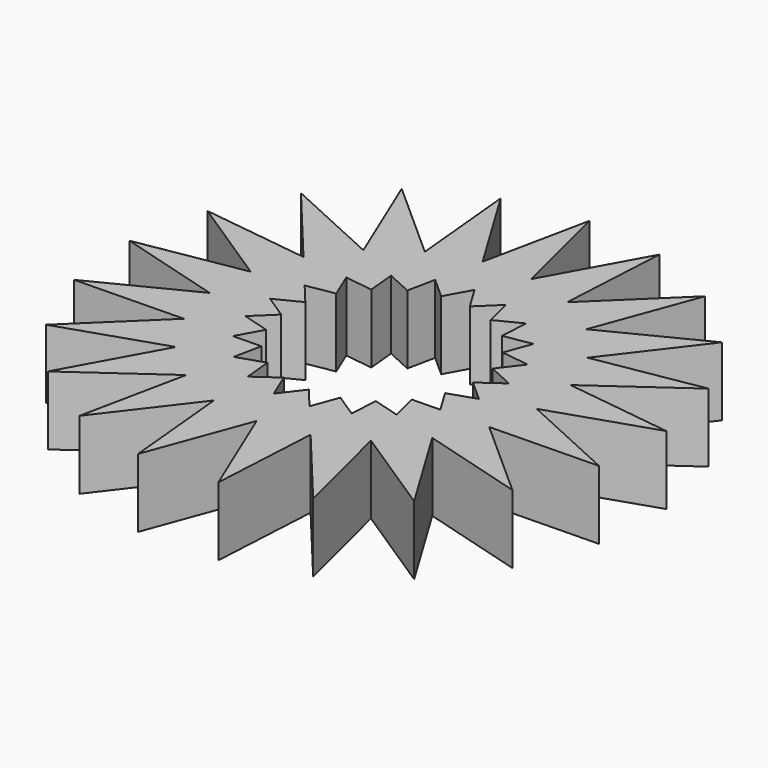
from build123d import *

# Parameters (mm, degrees)
F1_DEPTH = 3.175


with BuildPart() as f1:
    # F0 (on Top) → F1 (new body)
    with BuildSketch(Plane.XY):
        Polygon((-10.4870628137, -6.3373573051), (-5.7407955294, -4.7688256549), (-4.6671820235, -2.8203893327), (-6.8913841292, -2.8648309238), align=None)
        Polygon((-8.1531831795, -9.14692233), (-4.0801120539, -6.2490892989), (-3.6285078717, -4.0707633994), (-5.7407955294, -4.7688256549), align=None)
        Polygon((-4.0801120539, -6.2490892989), (-5.0948574403, -11.1437431653), (-2.056892717, -7.174093935), (-2.267424872, -4.9594322738), align=None)
        Polygon((-0.704871222, -5.4074338266), (-2.056892717, -7.174093935), (-1.583831259, -12.1503935168), (0.1490905642, -7.461648842), align=None)
        Polygon((2.4637240027, -4.8648995948), (2.3418264946, -7.0862035045), (5.5359375832, -10.9313301636), (4.326480864, -6.0811178883), align=None)
        Polygon((3.7882219865, -3.9225703575), (4.326480864, -6.0811178883), (8.512057538, -8.8139355875), (5.9267084221, -4.5356982612), align=None)
        Polygon((4.7761198224, -2.6317035301), (5.9267084221, -4.5356982612), (10.7318438259, -5.9133841552), (7.0003219281, -2.587261939), align=None)
        Polygon((5.3396384525, -1.106998295), (7.0003219281, -2.587261939), (11.998058694, -2.4874025902), (7.4519261103, -0.4089360395), align=None)
        Polygon((5.4287067735, 0.5160685966), (7.4519261103, -0.4089360395), (12.1981933945, 1.1595956107), (7.2413939554, 1.8057256217), align=None)
        Polygon((5.0354106741, 2.0932805287), (7.2413939554, 1.8057256217), (11.314465081, 4.7035586528), (6.3874321692, 3.8599406371), align=None)
        Polygon((4.1946962388, 3.4844952996), (6.3874321692, 3.8599406371), (9.4253968924, 7.8295898674), (4.965919004, 5.5711829878), align=None)
        Polygon((2.9812646346, 4.5660973716), (4.965919004, 5.5711829878), (6.6988408272, 10.2599276626), (3.1031621427, 6.7874012813), align=None)
        Polygon((0.964675707, 7.400529185), (1.5029345845, 5.2419816542), (3.1031621427, 6.7874012813), (3.3770633571, 11.7786258601), align=None)
        Polygon((-0.2447810122, 12.2507414603), (-1.2595263986, 7.3560875939), (-0.1089377989, 5.4520928628), (0.964675707, 7.400529185), align=None)
        Polygon((-3.3718140564, 6.6580253384), (-1.7111305808, 5.1777616944), (-1.2595263986, 7.3560875939), (-3.8448755144, 11.6343249202), align=None)
        Polygon((-7.1033359542, 9.9841475546), (-5.1845012383, 5.3683683133), (-3.1612819015, 4.4433636772), (-3.3718140564, 6.6580253384), align=None)
        Polygon((-9.730633822, 7.446834864), (-6.5365227334, 3.6017082049), (-4.3305394521, 3.3141532979), (-5.1845012383, 5.3683683133), align=None)
        Polygon((-11.4933221725, 4.2478382159), (-7.3077454986, 1.5150205167), (-5.1150095682, 1.8904658542), (-6.5365227334, 3.6017082049), align=None)
        Polygon((-12.2347784104, 0.671402501), (-7.4296430067, -0.706283393), (-5.4449886373, 0.2988022231), (-7.3077454986, 1.5150205167), align=None)
        Polygon((-11.8891208951, -2.9646902726), (-6.8913841292, -2.8648309238), (-5.291156571, -1.3194112967), (-7.4296430067, -0.706283393), align=None)
        Polygon((-6.8913841292, -2.8648309238), (-4.6671820235, -2.8203893327), (-4.0380858348, -1.6786806476), (-5.291156571, -1.3194112967), align=None)
        Polygon((-5.7407955294, -4.7688256549), (-3.6285078717, -4.0707633994), (-3.3638852041, -2.794348271), (-4.6671820235, -2.8203893327), align=None)
        Polygon((-3.6285078717, -4.0707633994), (-4.0801120539, -6.2490892989), (-2.267424872, -4.9594322738), (-2.3907886109, -3.6617257877), align=None)
        Polygon((-2.267424872, -4.9594322738), (-2.056892717, -7.174093935), (-0.704871222, -5.4074338266), (-1.2052599578, -4.2037428989), align=None)
        Polygon((0.0873613318, -4.3722390058), (-0.704871222, -5.4074338266), (0.1490905642, -7.461648842), (0.9203133294, -5.3749611537), align=None)
        Polygon((0.9203133294, -5.3749611537), (0.1490905642, -7.461648842), (2.0679252801, -12.0774280832), (2.3418264946, -7.0862035045), align=None)
        Polygon((1.3722201837, -4.1522424897), (0.9203133294, -5.3749611537), (2.3418264946, -7.0862035045), (2.4637240027, -4.8648995948), align=None)
        Polygon((2.5351512503, -3.5633010067), (2.4637240027, -4.8648995948), (4.326480864, -6.0811178883), (3.7882219865, -3.9225703575), align=None)
        Polygon((3.4728230031, -2.6577445918), (3.7882219865, -3.9225703575), (5.9267084221, -4.5356982612), (4.7761198224, -2.6317035301), align=None)
        Polygon((4.1019191917, -1.5160359067), (4.7761198224, -2.6317035301), (7.0003219281, -2.587261939), (5.3396384525, -1.106998295), align=None)
        Polygon((4.3665418593, -0.2396207783), (5.3396384525, -1.106998295), (7.4519261103, -0.4089360395), (5.4287067735, 0.5160685966), align=None)
        Polygon((4.2431781203, 1.0580857079), (5.4287067735, 0.5160685966), (7.2413939554, 1.8057256217), (5.0354106741, 2.0932805287), align=None)
        Polygon((3.7427893845, 2.2617766355), (5.0354106741, 2.0932805287), (6.3874321692, 3.8599406371), (4.1946962388, 3.4844952996), align=None)
        Polygon((2.9098373869, 3.2644987835), (4.1946962388, 3.4844952996), (4.965919004, 5.5711829878), (2.9812646346, 4.5660973716), align=None)
        Polygon((1.5029345845, 5.2419816542), (1.8183335679, 3.9771558885), (2.9812646346, 4.5660973716), (3.1031621427, 6.7874012813), align=None)
        Polygon((-0.1089377989, 5.4520928628), (0.5652628318, 4.3364252394), (1.5029345845, 5.2419816542), (0.964675707, 7.400529185), align=None)
        Polygon((-1.2595263986, 7.3560875939), (-1.7111305808, 5.1777616944), (-0.7380339876, 4.3103841777), (-0.1089377989, 5.4520928628), align=None)
        Polygon((-3.1612819015, 4.4433636772), (-1.9757532484, 3.9013465659), (-1.7111305808, 5.1777616944), (-3.3718140564, 6.6580253384), align=None)
        Polygon((-5.1845012383, 5.3683683133), (-4.3305394521, 3.3141532979), (-3.0379181626, 3.145657191), (-3.1612819015, 4.4433636772), align=None)
        Polygon((-6.5365227334, 3.6017082049), (-5.1150095682, 1.8904658542), (-3.8301507163, 2.1104623702), (-4.3305394521, 3.3141532979), align=None)
        Polygon((-7.3077454986, 1.5150205167), (-5.4449886373, 0.2988022231), (-4.2820575706, 0.8877437062), (-5.1150095682, 1.8904658542), align=None)
        Polygon((-7.4296430067, -0.706283393), (-5.291156571, -1.3194112967), (-4.3534848183, -0.4138548819), (-5.4449886373, 0.2988022231), align=None)
    extrude(amount=F1_DEPTH)


solid = f1.part
